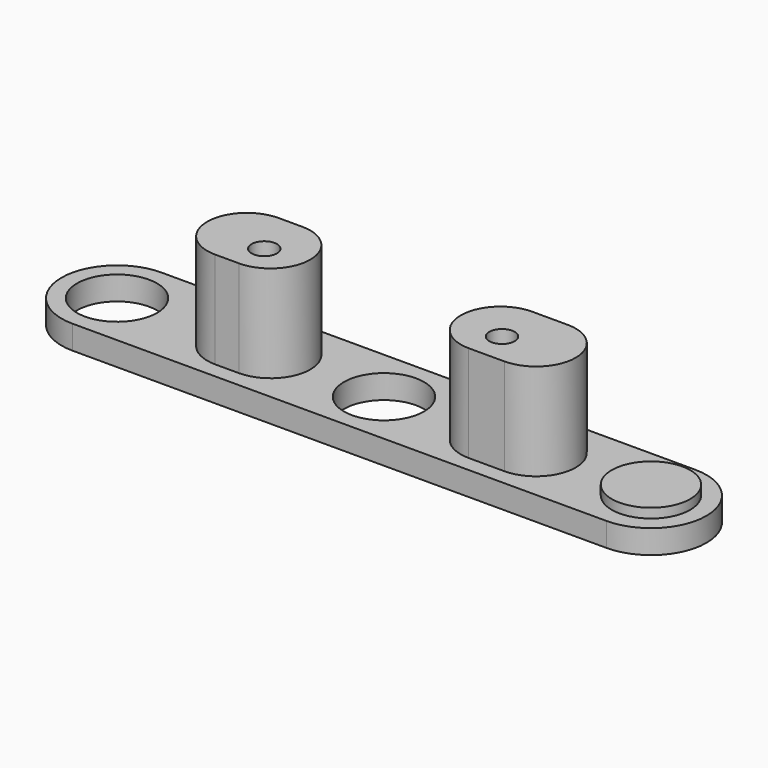
from build123d import *

# Parameters (mm, degrees)
PAD008_DEPTH             = 3
PAD009_DEPTH             = 15.2
SKETCH025_R              = 5.05
SKETCH025_R_2            = 1.6
POCKET_DEPTH             = 15.2
SKETCH026_R              = 4.95
PAD010_DEPTH             = 1.2
SKETCH027_R              = 3.45
POCKET001_DEPTH          = 13
CLONE008_PLACEMENT_ANGLE = 180


with BuildPart() as part:
    # Sketch023 → Pad008 (new body)
    with BuildSketch(Plane.XY.offset(12.2)):
        with BuildLine():
            ThreePointArc((-67.387162, 7), (-74.387162, 0), (-67.387162, -7))
            Line((-67.387162, -7), (0, -7))
            ThreePointArc((0, -7), (7, 0), (0, 7))
            Line((-67.387162, 7), (0, 7))
        make_face()
    extrude(amount=PAD008_DEPTH)

    # Sketch024 → Pad009 (join)
    with BuildSketch(Plane.XY):
        with BuildLine():
            ThreePointArc((-19, 5), (-24, 0), (-19, -5))
            Line((-19, -5), (-14.5, -5))
            ThreePointArc((-14.5, -5), (-9.5, 0), (-14.5, 5))
            Line((-19, 5), (-14.5, 5))
        make_face()
        with BuildLine():
            ThreePointArc((-51, 5), (-56, 0), (-51, -5))
            Line((-51, -5), (-48, -5))
            ThreePointArc((-48, -5), (-43, 0), (-48, 5))
            Line((-51, 5), (-48, 5))
        make_face()
    extrude(amount=PAD009_DEPTH)

    # Sketch025 → Pocket (cut)
    with BuildSketch(Plane.XY):
        with Locations((-33.693581, 0)):
            Circle(SKETCH025_R)
        with Locations((-67.387162, 0)):
            Circle(SKETCH025_R)
        with Locations((-18, 1)):
            Circle(SKETCH025_R_2)
        with Locations((-48, 1)):
            Circle(SKETCH025_R_2)
    extrude(amount=POCKET_DEPTH, mode=Mode.SUBTRACT)

    # Sketch026 → Pad010 (join)
    with BuildSketch(Plane.XY.offset(12.2)):
        Circle(SKETCH026_R)
    extrude(amount=-PAD010_DEPTH)

    # Sketch027 → Pocket001 (cut)
    with BuildSketch(Plane.XY.offset(15.2)):
        with Locations((-18, 1)):
            Circle(SKETCH027_R)
        with Locations((-48, 1)):
            Circle(SKETCH027_R)
    extrude(amount=-POCKET001_DEPTH, mode=Mode.SUBTRACT)


with BuildPart() as part_1:
    # Clone008 placement: moved
    add(part.part.moved(Location((0, -20, 15))).rotate(Axis((0, -20, 15), (1, 0, 0)), CLONE008_PLACEMENT_ANGLE))


solid = part_1.part
